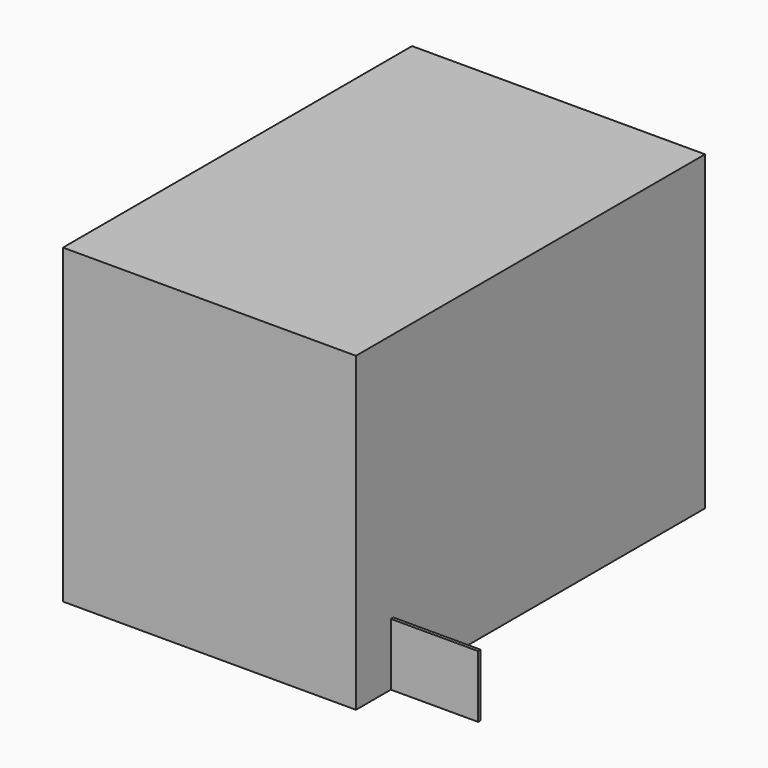
from build123d import *

# Parameters (mm, degrees)
F1_W     = 94
F1_H     = 140
F2_DEPTH = 100
F3_W     = 28
F3_H     = 1
F4_DEPTH = 20


with BuildPart() as f2:
    # F1 (on Top) → F2 (new body)
    with BuildSketch(Plane.XY):
        with Locations((47, 70)):
            Rectangle(F1_W, F1_H)
    extrude(amount=F2_DEPTH)

    # F3 (on Top) → F4 (join)
    with BuildSketch(Plane.XY):
        with Locations((108, 14.5)):
            Rectangle(F3_W, F3_H)
    extrude(amount=F4_DEPTH)


solid = f2.part
